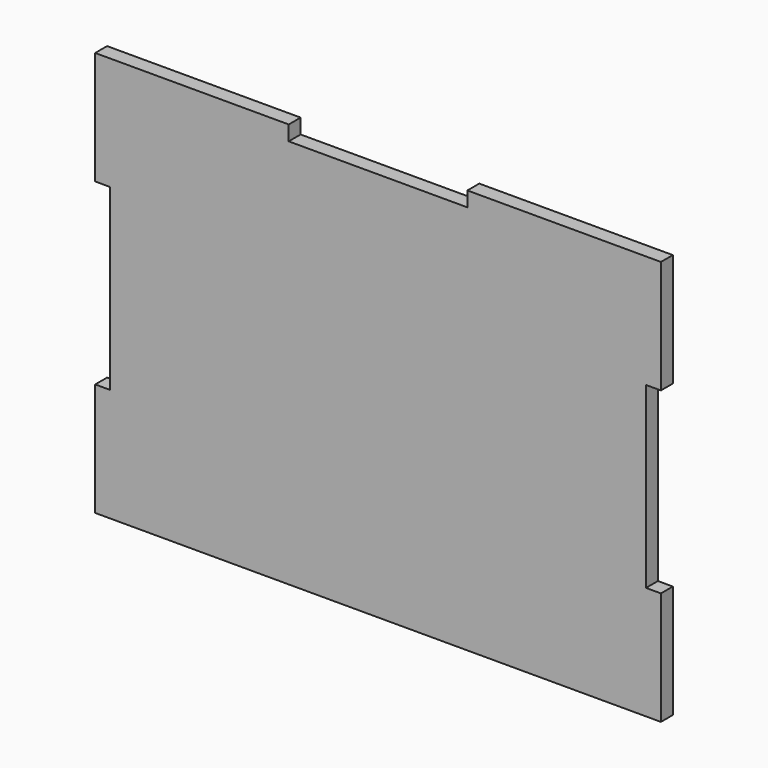
from build123d import *

# Parameters (mm, degrees)
F1_DEPTH = 3.175


with BuildPart() as f1:
    # F0 (on Front) → F1 (new body)
    with BuildSketch(Plane.XZ):
        Polygon((0, -43.18), (60.325, -43.18), (60.325, -19.05), (57.15, -19.05), (57.15, 19.05), (60.325, 19.05), (60.325, 43.18), (19.05, 43.18), (19.05, 40.005), (0, 40.005), (0, 0), align=None)
        Polygon((-60.325, -43.18), (0, -43.18), (0, 0), (0, 40.005), (-19.05, 40.005), (-19.05, 43.18), (-60.325, 43.18), (-60.325, 19.05), (-57.15, 19.05), (-57.15, -19.05), (-60.325, -19.05), align=None)
    extrude(amount=F1_DEPTH)


solid = f1.part
